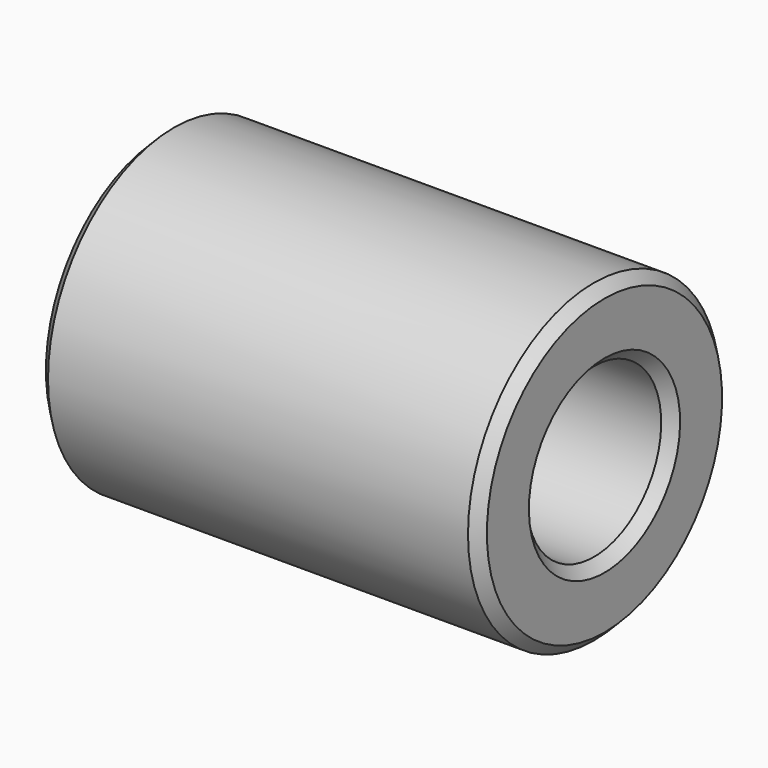
from build123d import *

# Parameters (mm, degrees)
F0_W    = 21
F0_H    = 3.5
F2_SIZE = 0.5


with BuildPart() as f1:
    # F0 (on Front) → F1 (revolve)
    with BuildSketch(Plane.XZ):
        with Locations((0, 5.75)):
            Rectangle(F0_W, F0_H)
    revolve(axis=Axis((-0.426252, 0, 0), (-1, 0, 0)))

    # F2
    f2_edges = [f1.edges().sort_by_distance(p)[0] for p in [
        (10.5, 0, -7.5),
        (10.5, 0, -4),
        (-10.5, 0, -4),
        (-10.5, 0, -7.5),
    ]]
    chamfer(f2_edges, length=F2_SIZE)


solid = f1.part
